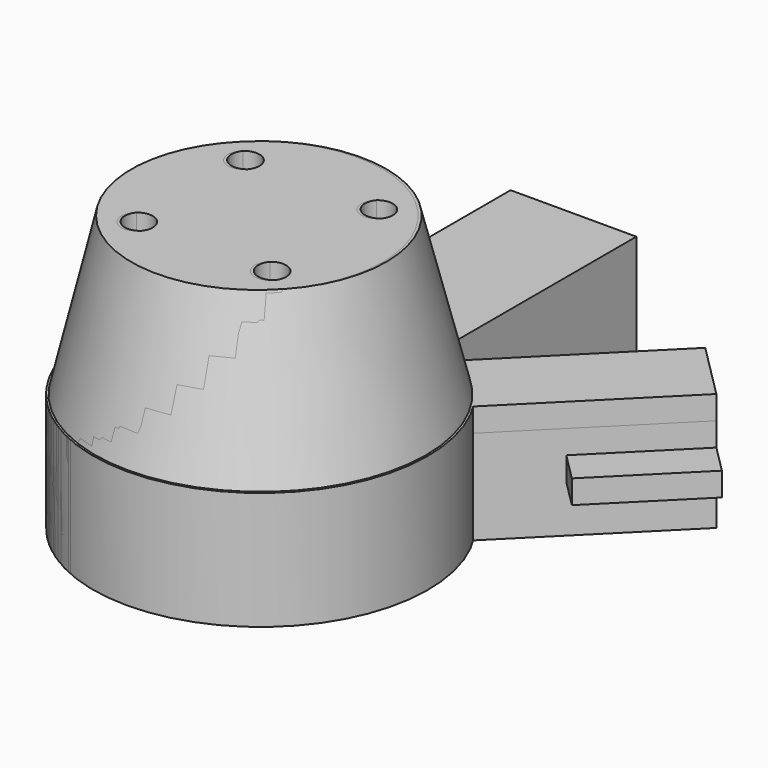
from build123d import *

# Parameters (mm, degrees)
SKETCH005_R                               = 2
EXTRUDE001_DEPTH                          = 20
SKETCH_W                                  = 16
SKETCH_H                                  = 16
EXTRUDE_DEPTH                             = 15
SKETCH003_R                               = 16
SKETCH004_R                               = 21.3
SKETCH010_AS_DRAWN_W                      = 15
SKETCH010_AS_DRAWN_H                      = 3
EXTRUDE004_DEPTH                          = 5
EXTRUDE004_ONTO_SKETCH010_ROLL_ANGLE      = 90
EXTRUDE004_ONTO_SKETCH010_PLACEMENT_ANGLE = 45
SKETCH011_AS_DRAWN_W                      = 15
SKETCH011_AS_DRAWN_H                      = 3
EXTRUDE005_DEPTH                          = 5
EXTRUDE005_ONTO_SKETCH011_ROLL_ANGLE      = 90
EXTRUDE005_ONTO_SKETCH011_PLACEMENT_ANGLE = -45
SKETCH009_R                               = 2
EXTRUDE003_DEPTH                          = 20
SKETCH007_R                               = 16
SKETCH008_R                               = 20.9601551084
SKETCH006_W                               = 15.5
SKETCH006_H                               = 15.5
EXTRUDE002_DEPTH                          = 15
EXTRUDE008_DEPTH                          = 3
SKETCH015_R                               = 2
EXTRUDE007_DEPTH                          = 20
SKETCH013_R                               = 16
SKETCH014_R                               = 20.9601551084
SKETCH012_R                               = 20.9601551084
SKETCH012_W                               = 15.5
SKETCH012_H                               = 15.5
EXTRUDE006_DEPTH                          = 15


with BuildPart() as screwholes:
    # Sketch005 (on Face2 of Loft) → Extrude001 (new body)
    with BuildSketch(Plane.XY.offset(35)):
        with Locations((16.4852813742, 16.4852813742)):
            Circle(SKETCH005_R)
        with Locations((-0.4852813742, 16.4852813742)):
            Circle(SKETCH005_R)
        with Locations((-0.4852813742, -0.4852813742)):
            Circle(SKETCH005_R)
        with Locations((16.4852813742, -0.4852813742)):
            Circle(SKETCH005_R)
    extrude(amount=-EXTRUDE001_DEPTH)


with BuildPart() as socket:
    # Sketch → Extrude (new body)
    with BuildSketch(Plane.XY):
        with BuildLine():
            ThreePointArc((0, 27.7553580069), (8, -13.313708499), (16, 27.7553580069))
            Line((16, 27.7553580069), (16, 57.7553580069))
            Line((16, 57.7553580069), (0, 57.7553580069))
            Line((0, 57.7553580069), (0, 27.7553580069))
        make_face()
        with Locations((8, 8)):
            Rectangle(SKETCH_W, SKETCH_H, mode=Mode.SUBTRACT)
    extrude(amount=EXTRUDE_DEPTH)


with BuildPart() as adapter:
    # Sketch003 (on Face10 of Extrude) → Loft section 0
    with BuildSketch(Plane.XY.offset(35)):
        with Locations((8, 8)):
            Circle(SKETCH003_R)
    # Sketch004 (on Face10 of Extrude) → Loft section 1
    with BuildSketch(Plane.XY.offset(14)):
        with Locations((8, 8)):
            Circle(SKETCH004_R)
    loft()

    # Fusion: union Socket
    add(socket.part)

    # Cut: cut ScrewHoles
    add(screwholes.part, mode=Mode.SUBTRACT)


with BuildPart() as extrude004:
    # Sketch010 as drawn → Extrude004 (new)
    with BuildSketch(Plane.XY):
        with Locations((48.8152061319, 7.5)):
            Rectangle(SKETCH010_AS_DRAWN_W, SKETCH010_AS_DRAWN_H)
    extrude(amount=EXTRUDE004_DEPTH)


with BuildPart() as extrude004_1:
    # Extrude004 onto Sketch010 roll: moved
    add(extrude004.part.rotate(Axis((0, 0, 0), (1, 0, 0)), EXTRUDE004_ONTO_SKETCH010_ROLL_ANGLE))


with BuildPart() as extrude004_2:
    # Extrude004 onto Sketch010 placement: moved
    add(extrude004_1.part.moved(Location((3.5355339059, -3.5355339059, 0))).rotate(Axis((3.5355339059, -3.5355339059, 0), (0, 0, 1)), EXTRUDE004_ONTO_SKETCH010_PLACEMENT_ANGLE))


with BuildPart() as extrude005:
    # Sketch011 as drawn → Extrude005 (new)
    with BuildSketch(Plane.XY):
        with Locations((-37.8550510235, 7.5)):
            Rectangle(SKETCH011_AS_DRAWN_W, SKETCH011_AS_DRAWN_H)
    extrude(amount=EXTRUDE005_DEPTH)


with BuildPart() as extrude005_1:
    # Extrude005 onto Sketch011 roll: moved
    add(extrude005.part.rotate(Axis((0, 0, 0), (1, 0, 0)), EXTRUDE005_ONTO_SKETCH011_ROLL_ANGLE))


with BuildPart() as extrude005_2:
    # Extrude005 onto Sketch011 placement: moved
    add(extrude005_1.part.moved(Location((4.2144660941, 4.2144660941, 0))).rotate(Axis((4.2144660941, 4.2144660941, 0), (0, 0, 1)), EXTRUDE005_ONTO_SKETCH011_PLACEMENT_ANGLE))


with BuildPart() as screwholes001:
    # Sketch009 (on Face2 of Loft001) → Extrude003 (new body)
    with BuildSketch(Plane.XY.offset(35)):
        with Locations((16.2352813742, 16.2352813742)):
            Circle(SKETCH009_R)
        with Locations((-0.7352813742, 16.2352813742)):
            Circle(SKETCH009_R)
        with Locations((-0.7352813742, -0.7352813742)):
            Circle(SKETCH009_R)
        with Locations((16.2352813742, -0.7352813742)):
            Circle(SKETCH009_R)
    extrude(amount=-EXTRUDE003_DEPTH)


with BuildPart() as shaft001:
    # Sketch007 (on Face14 of Extrude002) → Loft001 section 0
    with BuildSketch(Plane.XY.offset(35)):
        with Locations((7.75, 7.75)):
            Circle(SKETCH007_R)
    # Sketch008 (on Face14 of Extrude002) → Loft001 section 1
    with BuildSketch(Plane.XY.offset(14)):
        with Locations((7.75, 7.75)):
            Circle(SKETCH008_R)
    loft()


with BuildPart() as obj1:
    # Sketch006 → Extrude002 (new body)
    with BuildSketch(Plane.XY):
        with BuildLine():
            Line((36.2853302338, 43.3563980457), (43.3563980457, 36.2853302338))
            Line((43.3563980457, 36.2853302338), (25.678728516, 18.6076607042))
            ThreePointArc((-10.178728516, 18.6076607042), (7.75, -13.2101551084), (25.678728516, 18.6076607042))
            Line((-10.178728516, 18.6076607042), (-27.8563980457, 36.2853302338))
            Line((-20.7853302338, 43.3563980457), (-27.8563980457, 36.2853302338))
            Line((-3.1076607041, 25.678728516), (-20.7853302338, 43.3563980457))
            ThreePointArc((18.6076607042, 25.678728516), (7.75, 28.7101551084), (-3.1076607041, 25.678728516))
            Line((18.6076607042, 25.678728516), (36.2853302338, 43.3563980457))
        make_face()
        with Locations((7.75, 7.75)):
            Rectangle(SKETCH006_W, SKETCH006_H, mode=Mode.SUBTRACT)
    extrude(amount=EXTRUDE002_DEPTH)

    # Fusion001: union Shaft001
    add(shaft001.part)

    # Cut001: cut ScrewHoles001
    add(screwholes001.part, mode=Mode.SUBTRACT)

    # Fusion002: union Extrude004, Extrude005
    add(extrude004_2.part)
    add(extrude005_2.part)


with BuildPart() as blades:
    # Sketch016 (on Face7 of Extrude006) → Extrude008 (new body)
    with BuildSketch(Plane.XY.offset(15)):
        with BuildLine():
            Line((18.6076607042, 25.678728516), (36.2853302338, 43.3563980457))
            Line((43.3563980457, 36.2853302338), (36.2853302338, 43.3563980457))
            Line((25.678728516, 18.6076607042), (43.3563980457, 36.2853302338))
            ThreePointArc((25.678728516, 18.6076607042), (22.5710678119, 22.5710678119), (18.6076607042, 25.678728516))
        make_face()
        with BuildLine():
            Line((-10.178728516, 18.6076607042), (-27.8563980457, 36.2853302338))
            Line((-20.7853302338, 43.3563980457), (-27.8563980457, 36.2853302338))
            Line((-3.1076607042, 25.678728516), (-20.7853302338, 43.3563980457))
            ThreePointArc((-3.1076607042, 25.678728516), (-7.0710678119, 22.5710678119), (-10.178728516, 18.6076607042))
        make_face()
    extrude(amount=-EXTRUDE008_DEPTH)


with BuildPart() as screwholes002:
    # Sketch015 (on Face2 of Loft002) → Extrude007 (new body)
    with BuildSketch(Plane.XY.offset(35)):
        with Locations((16.2352813742, 16.2352813742)):
            Circle(SKETCH015_R)
        with Locations((-0.7352813742, 16.2352813742)):
            Circle(SKETCH015_R)
        with Locations((-0.7352813742, -0.7352813742)):
            Circle(SKETCH015_R)
        with Locations((16.2352813742, -0.7352813742)):
            Circle(SKETCH015_R)
    extrude(amount=-EXTRUDE007_DEPTH)


with BuildPart() as shaftscrews:
    # Sketch013 (on Face7 of Extrude006) → Loft002 section 0
    with BuildSketch(Plane.XY.offset(35)):
        with Locations((7.75, 7.75)):
            Circle(SKETCH013_R)
    # Sketch014 (on Face7 of Extrude006) → Loft002 section 1
    with BuildSketch(Plane.XY.offset(14)):
        with Locations((7.75, 7.75)):
            Circle(SKETCH014_R)
    loft()

    # Cut002: cut ScrewHoles002
    add(screwholes002.part, mode=Mode.SUBTRACT)


with BuildPart() as obj2:
    # Sketch012 → Extrude006 (new body)
    with BuildSketch(Plane.XY):
        with Locations((7.75, 7.75)):
            Circle(SKETCH012_R)
        with Locations((7.75, 7.75)):
            Rectangle(SKETCH012_W, SKETCH012_H, mode=Mode.SUBTRACT)
    extrude(amount=EXTRUDE006_DEPTH)

    # Fusion003: union Blades, ShaftScrews
    add(blades.part)
    add(shaftscrews.part)


solid = Compound([adapter.part, obj1.part, obj2.part])
